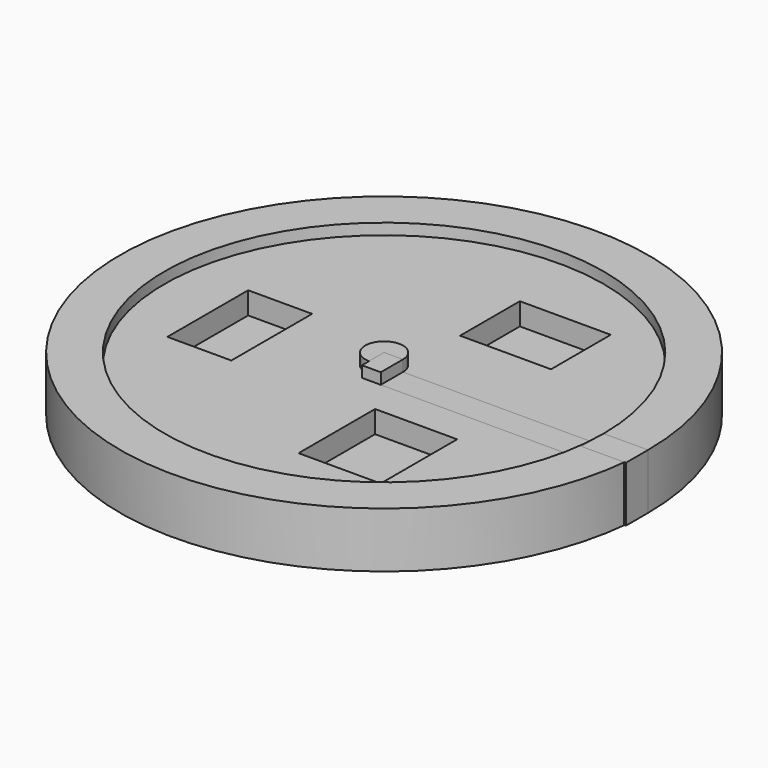
from build123d import *

# Parameters (mm, degrees)
F2_DEPTH = 6.35
F3_W     = 18.792614
F3_H     = 21.901235
F3_W_2   = 14.647723
F3_H_2   = 23.127168
F3_W_3   = 20.822802
F3_H_3   = 17.105863
F4_DEPTH = 5.08


with BuildPart() as f1:
    # F0 (on Front) → F1 (revolve)
    with BuildSketch(Plane.XZ):
        Polygon((5.842, 12.7), (5.842, 0), (66.294, 0), (66.294, 12.7), (56.134, 12.7), (56.134, 10.16), (10.16, 10.16), (10.16, 12.7), align=None)
    revolve(axis=Axis((5.842, 0, 2.921), (0, 0, -1)))

    # F3 (on face) → F4 (cut)
    with BuildSketch(Plane.XY.offset(10.16)):
        with Locations((24.609473, -25.245189)):
            Rectangle(F3_W, F3_H)
        with Locations((-23.918686, -4.120691)):
            Rectangle(F3_W_2, F3_H_2)
        with Locations((19.760761, 25.92767)):
            Rectangle(F3_W_3, F3_H_3)
    extrude(amount=-F4_DEPTH, mode=Mode.SUBTRACT)


with BuildPart() as f2:
    # F0 (on Front) → F2 (new body)
    with BuildSketch(Plane.XZ):
        Polygon((5.842, 12.7), (5.842, 0), (66.294, 0), (66.294, 12.7), (56.134, 12.7), (56.134, 10.16), (10.16, 10.16), (10.16, 12.7), align=None)
    extrude(amount=F2_DEPTH)


solid = Compound([f1.part, f2.part])
